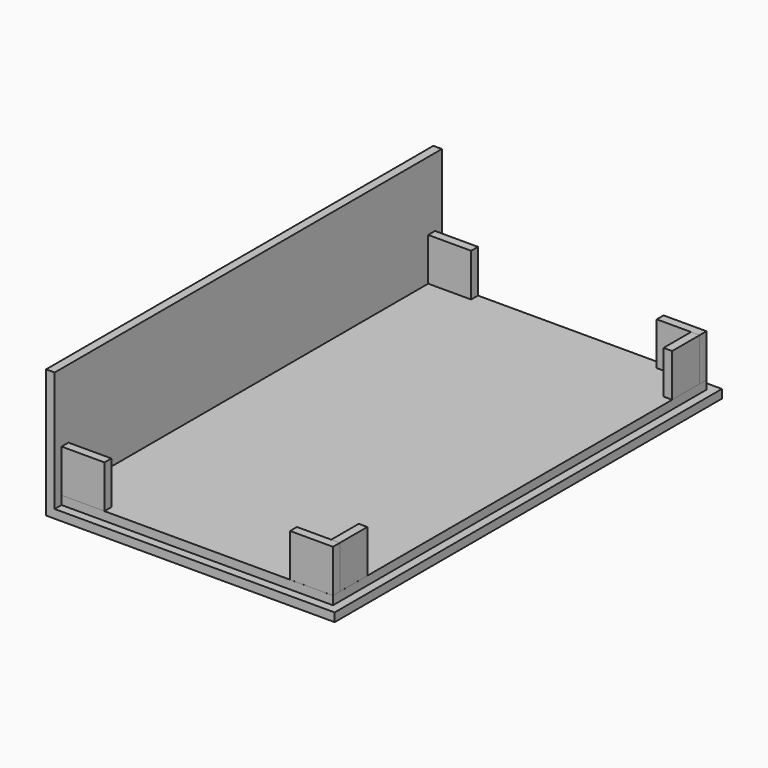
from build123d import *

# Parameters (mm, degrees)
SKETCH_W     = 67.25
SKETCH_H     = 112.8
PAD_DEPTH    = 30
THICKNESS_T  = -2
SKETCH001_W  = 63.25
SKETCH001_H  = 108.800063
PAD001_DEPTH = 2
SKETCH002_W  = 10
SKETCH002_H  = 2
PAD002_DEPTH = 10
SKETCH003_W  = 10
SKETCH003_H  = 2
PAD003_DEPTH = 10
SKETCH004_W  = 2
SKETCH004_H  = 8
PAD004_DEPTH = 10
SKETCH005_W  = 10
SKETCH005_H  = 2
PAD005_DEPTH = 10
SKETCH006_W  = 2
SKETCH006_H  = 8
PAD006_DEPTH = 10
SKETCH007_W  = 10
SKETCH007_H  = 2
PAD007_DEPTH = 10


with BuildPart() as part:
    # Sketch → Pad (new body)
    with BuildSketch(Plane.XY):
        with Locations((33.625, 56.4)):
            Rectangle(SKETCH_W, SKETCH_H)
    extrude(amount=PAD_DEPTH)

    # Thickness
    thickness_openings = [part.faces().sort_by_distance(p)[0] for p in [
        (67.25, 56.4, 15),
        (33.625, 0, 15),
        (33.625, 56.4, 30),
        (33.625, 112.8, 15),
    ]]
    offset(amount=THICKNESS_T, openings=thickness_openings)

    # Sketch001 (on Face8 of Thickness) → Pad001 (join)
    with BuildSketch(Plane.XY.offset(2)):
        with Locations((33.630087, 56.399667)):
            Rectangle(SKETCH001_W, SKETCH001_H)
    extrude(amount=PAD001_DEPTH)

    # Sketch002 (on Face13 of Pad001) → Pad002 (join)
    with BuildSketch(Plane.XY.offset(4)):
        with Locations((7.005123, 2.998829)):
            Rectangle(SKETCH002_W, SKETCH002_H)
    extrude(amount=PAD002_DEPTH)

    # Sketch003 (on Face13 of Pad002) → Pad003 (join)
    with BuildSketch(Plane.XY.offset(4)):
        with Locations((60.25087, 3.005487)):
            Rectangle(SKETCH003_W, SKETCH003_H)
    extrude(amount=PAD003_DEPTH)

    # Sketch004 (on Face13 of Pad003) → Pad004 (join)
    with BuildSketch(Plane.XY.offset(4)):
        with Locations((64.250015, 8.00565)):
            Rectangle(SKETCH004_W, SKETCH004_H)
    extrude(amount=PAD004_DEPTH)

    # Sketch005 (on Face13 of Pad004) → Pad005 (join)
    with BuildSketch(Plane.XY.offset(4)):
        with Locations((60.255219, 109.799278)):
            Rectangle(SKETCH005_W, SKETCH005_H)
    extrude(amount=PAD005_DEPTH)

    # Sketch006 (on Face13 of Pad005) → Pad006 (join)
    with BuildSketch(Plane.XY.offset(4)):
        with Locations((64.253967, 104.795769)):
            Rectangle(SKETCH006_W, SKETCH006_H)
    extrude(amount=PAD006_DEPTH)

    # Sketch007 (on Face13 of Pad006) → Pad007 (join)
    with BuildSketch(Plane.XY.offset(4)):
        with Locations((7.006138, 109.796768)):
            Rectangle(SKETCH007_W, SKETCH007_H)
    extrude(amount=PAD007_DEPTH)


solid = part.part
